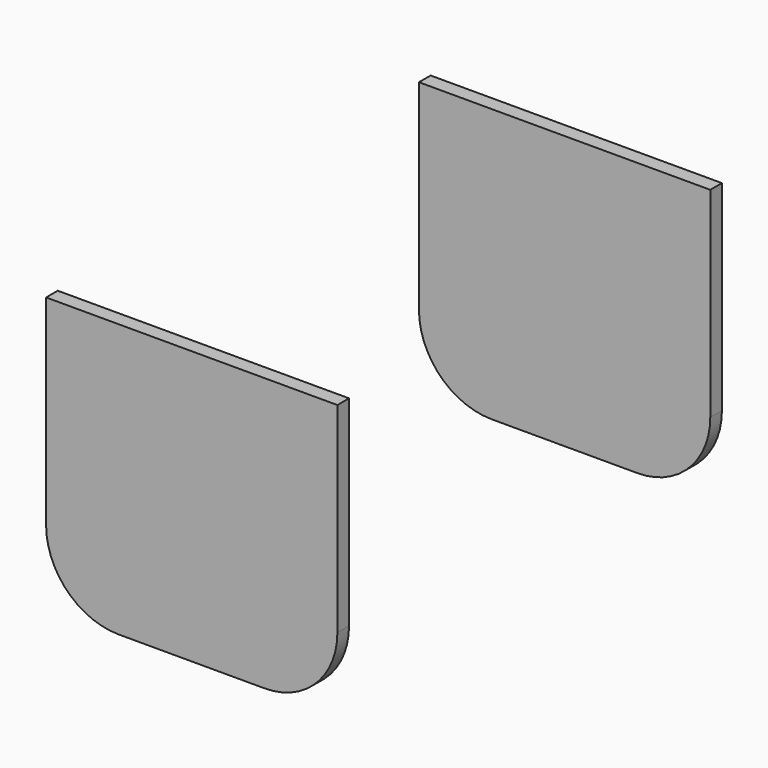
from build123d import *

# Parameters (mm, degrees)
F1_DEPTH  = 50
F2_R      = 5
F4_DEPTH  = 1
F5_T      = -2
F8_DEPTH  = 1
F10_COUNT = 4
F12_DEPTH = 66.001


with BuildPart() as f1:
    # F0 (on Top) → F1 (new body)
    with BuildSketch(Plane.XY):
        with BuildLine():
            Line((-24.8, -33), (24.8, -33))
            ThreePointArc((24.8, -33), (30.598276, -30.598276), (33, -24.8))
            Line((33, -24.8), (33, 24.8))
            ThreePointArc((33, 24.8), (30.598276, 30.598276), (24.8, 33))
            Line((24.8, 33), (-24.8, 33))
            ThreePointArc((-24.8, 33), (-30.598276, 30.598276), (-33, 24.8))
            Line((-33, 24.8), (-33, -24.8))
            ThreePointArc((-33, -24.8), (-30.598276, -30.598276), (-24.8, -33))
        make_face()
    extrude(amount=-F1_DEPTH)

    # F2
    f2_edges = [f1.edges().sort_by_distance(p)[0] for p in [
        (0, -33, -50),
    ]]
    fillet(f2_edges, radius=F2_R)

    # F3 (on face) → F4 (join)
    with BuildSketch(Plane(origin=(0, 0, -50), x_dir=(1, 0, 0), z_dir=(0, 0, -1))):
        with BuildLine():
            Line((-24.8, -28), (24.8, -28))
            ThreePointArc((24.8, -28), (27.062742, -27.062742), (28, -24.8))
            Line((28, -24.8), (28, 24.8))
            ThreePointArc((28, 24.8), (27.062742, 27.062742), (24.8, 28))
            Line((24.8, 28), (-24.8, 28))
            ThreePointArc((-24.8, 28), (-27.062742, 27.062742), (-28, 24.8))
            Line((-28, 24.8), (-28, -24.8))
            ThreePointArc((-28, -24.8), (-27.062742, -27.062742), (-24.8, -28))
        make_face()
        with BuildLine():
            ThreePointArc((24.8, 27), (26.355635, 26.355635), (27, 24.8))
            Line((27, 24.8), (27, -24.8))
            ThreePointArc((27, -24.8), (26.355635, -26.355635), (24.8, -27))
            Line((24.8, -27), (-24.8, -27))
            ThreePointArc((-24.8, -27), (-26.355635, -26.355635), (-27, -24.8))
            Line((-27, -24.8), (-27, 24.8))
            ThreePointArc((-27, 24.8), (-26.355635, 26.355635), (-24.8, 27))
            Line((-24.8, 27), (24.8, 27))
        make_face(mode=Mode.SUBTRACT)
    extrude(amount=F4_DEPTH)

    # F5
    f5_openings = [f1.faces().sort_by_distance(p)[0] for p in [
        (0, 0, 0),
    ]]
    offset(amount=F5_T, openings=f5_openings)

    # F7 (on offset) → F8 (cut)
    with BuildSketch(Plane.XY.offset(-3)):
        with BuildLine():
            Line((24.8, -32), (24.8, -33))
            ThreePointArc((24.8, -33), (30.598276, -30.598276), (33, -24.8))
            Line((33, -24.8), (32, -24.8))
            ThreePointArc((32, -24.8), (29.891169, -29.891169), (24.8, -32))
        make_face()
    extrude(amount=-F8_DEPTH, mode=Mode.SUBTRACT)


with BuildPart() as f10_1:
    # F10: instance of F1
    add(f1.part.rotate(Axis((0, 0, 5.949285), (0, 0, 1)), 1 * 360 / F10_COUNT))


with BuildPart() as f10_2:
    # F10: instance of F1
    add(f1.part.rotate(Axis((0, 0, 5.949285), (0, 0, 1)), 2 * 360 / F10_COUNT))


with BuildPart() as f10_3:
    # F10: instance of F1
    add(f1.part.rotate(Axis((0, 0, 5.949285), (0, 0, 1)), 3 * 360 / F10_COUNT))


with BuildPart() as f12_tool:
    # F11 (on face) → F12 (new body, through all)
    with BuildSketch(Plane.XZ.offset(33)):
        with BuildLine():
            Line((-10, -37.5), (10, -37.5))
            ThreePointArc((10, -37.5), (17.071068, -34.571068), (20, -27.5))
            Line((20, -27.5), (20, 0))
            Line((20, 0), (0, 0))
            Line((0, 0), (-20, 0))
            Line((-20, 0), (-20, -27.5))
            ThreePointArc((-20, -27.5), (-17.071068, -34.571068), (-10, -37.5))
        make_face()
    extrude(amount=-F12_DEPTH)


with BuildPart() as f1_1:
    add(f1.part)

    # F12: intersect by f12_tool
    add(f12_tool.part, mode=Mode.INTERSECT)


with BuildPart() as f10_1_1:
    add(f10_1.part)

    # F12: intersect by f12_tool
    add(f12_tool.part, mode=Mode.INTERSECT)


with BuildPart() as f10_2_1:
    add(f10_2.part)

    # F12: intersect by f12_tool
    add(f12_tool.part, mode=Mode.INTERSECT)


with BuildPart() as f10_3_1:
    add(f10_3.part)

    # F12: intersect by f12_tool
    add(f12_tool.part, mode=Mode.INTERSECT)


solid = f1_1.part
